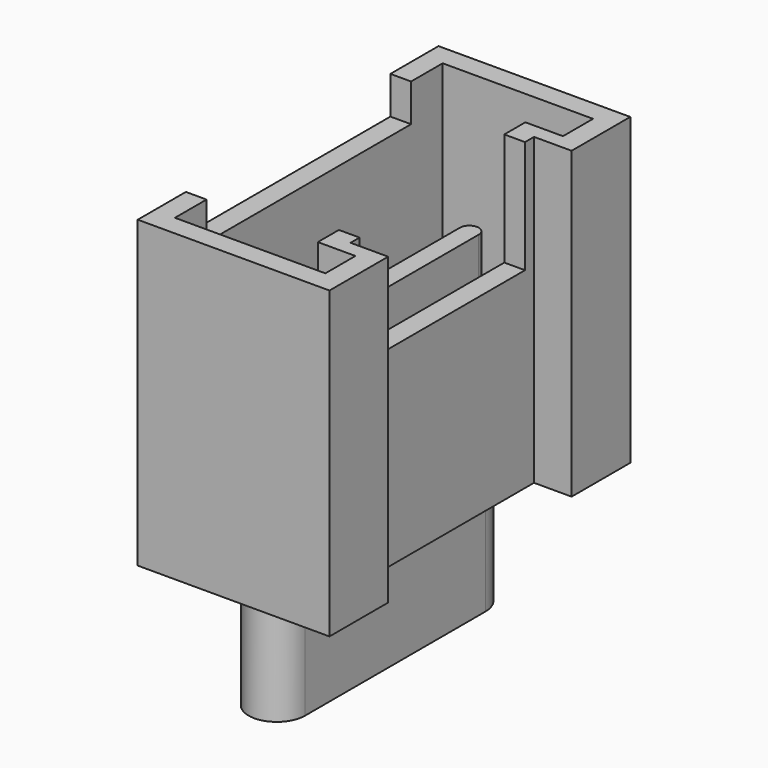
from build123d import *

# Parameters (mm, degrees)
PAD005_DEPTH            = 8.1
POCKET003_DEPTH         = 7
SKETCH010_W             = 6.8
SKETCH010_H             = 5
POCKET006_DEPTH         = 1
SKETCH011_W             = 5.5
SKETCH011_H             = 3
POCKET005_DEPTH         = 3
PAD006_DEPTH            = 4
PAD007_DEPTH            = 3.4
BODY007_PLACEMENT_ANGLE = 90


with BuildPart() as part:
    # Sketch008 → Pad005 (new body)
    with BuildSketch(Plane.XY):
        Polygon((-5, 0), (-3.05, 0), (-3.05, 1), (3.05, 1), (3.05, 0), (5, 0), (5, 5.1), (-5, 5.1), align=None)
    extrude(amount=PAD005_DEPTH)

    # Sketch009 (on Face10 of Pad005) → Pocket003 (cut)
    with BuildSketch(Plane.XY.offset(8.1)):
        Polygon((-4.45, 0.55), (-3.45, 0.55), (-3.45, 1.55), (3.45, 1.55), (3.45, 0.55), (4.45, 0.55), (4.45, 4.55), (-4.45, 4.55), align=None)
    extrude(amount=-POCKET003_DEPTH, mode=Mode.SUBTRACT)

    # Sketch010 (on Face5 of Pocket003) → Pocket006 (cut)
    with BuildSketch(Plane.XY.offset(8.1)):
        with Locations((0, 5.5)):
            Rectangle(SKETCH010_W, SKETCH010_H)
    extrude(amount=-POCKET006_DEPTH, mode=Mode.SUBTRACT)

    # Sketch011 (on Face5 of Pocket006) → Pocket005 (cut)
    with BuildSketch(Plane.XY.offset(8.1)):
        with Locations((0, 1.5)):
            Rectangle(SKETCH011_W, SKETCH011_H)
    extrude(amount=-POCKET005_DEPTH, mode=Mode.SUBTRACT)

    # Sketch015 (on Face26 of Pocket005) → Pad006 (join)
    with BuildSketch(Plane.XY.offset(1.1)):
        with BuildLine():
            ThreePointArc((-3.4, 3.25), (-3.65, 3), (-3.4, 2.75))
            Line((-3.4, 2.75), (3.4, 2.75))
            ThreePointArc((3.4, 2.75), (3.65, 3), (3.4, 3.25))
            Line((-3.4, 3.25), (3.4, 3.25))
        make_face()
    extrude(amount=PAD006_DEPTH)

    # Sketch014 → Pad007 (join)
    with BuildSketch(Plane.XY):
        with BuildLine():
            ThreePointArc((-3, 3.75), (-3.75, 3), (-3, 2.25))
            Line((-3, 2.25), (3, 2.25))
            ThreePointArc((3, 2.25), (3.75, 3), (3, 3.75))
            Line((-3, 3.75), (3, 3.75))
        make_face()
    extrude(amount=-PAD007_DEPTH)


with BuildPart() as part_1:
    # Body007 placement: moved
    add(part.part.moved(Location((-13.8, 0, 1.6))).rotate(Axis((-13.8, 0, 1.6), (0, 0, 1)), BODY007_PLACEMENT_ANGLE))


with BuildPart() as part_2:
    # Clone001 placement: moved
    add(part_1.part.moved(Location((-0.2, 0, 0))))


with BuildPart() as part_3:
    # Body008 placement: moved
    add(part_2.part.moved(Location((12.6, 0, 0))))


solid = part_3.part
